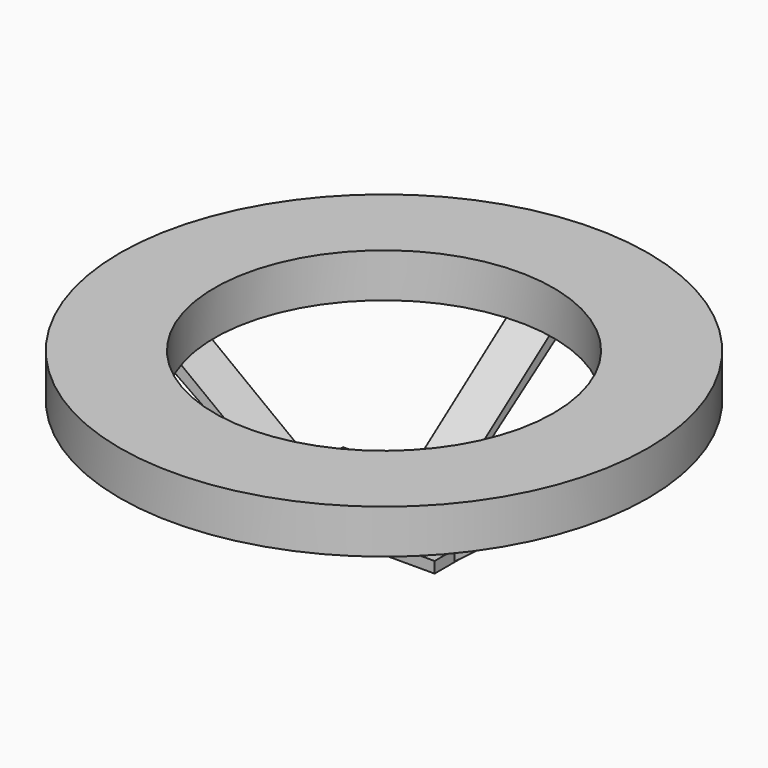
from build123d import *

# Parameters (mm, degrees)
F0_R      = 38.1
F0_R_2    = 24.458109
F1_DEPTH  = 3.175
F2_W      = 15.248981
F2_H      = 1.605155
F3_DEPTH  = 12.7
F6_DEPTH  = 3.175
F8_DEPTH  = 3.175
F9_DEPTH  = 3.175
F10_DEPTH = 3.175


with BuildPart() as f1:
    # F0 (on Top) → F1 (new body, symmetric)
    with BuildSketch(Plane.XY):
        Circle(F0_R)
        Circle(F0_R_2, mode=Mode.SUBTRACT)
    extrude(amount=F1_DEPTH, both=True)


with BuildPart() as f3:
    # F2 (on Right) → F3 (new body, symmetric)
    with BuildSketch(Plane.YZ):
        with Locations((0.872386, -17.480517)):
            Rectangle(F2_W, F2_H)
    extrude(amount=F3_DEPTH, both=True)


with BuildPart() as f6:
    # F5 (on Front) → F6 (new body, symmetric)
    with BuildSketch(Plane.XZ):
        Polygon((-12.45362, -17.95028), (-12.394847, -16.955135), (-30.858776, -2.888602), (-34.061063, -2.888602), align=None)
    extrude(amount=F6_DEPTH, both=True)


with BuildPart() as f8:
    # F7 (on Front) → F8 (new body, symmetric)
    with BuildSketch(Plane.XZ):
        Polygon((30.180834, -2.889303), (12.668087, -16.80029), (12.672707, -18.229164), (33.022512, -2.889303), align=None)
    extrude(amount=F8_DEPTH, both=True)


with BuildPart() as f9:
    # F4 (on Right) → F9 (new body, symmetric)
    with BuildSketch(Plane.YZ):
        Polygon((-6.596426, -17.948236), (-6.626349, -16.956734), (-26.51205, -3.091325), (-29.254386, -3.018449), align=None)
    extrude(amount=F9_DEPTH, both=True)


with BuildPart() as f10:
    # F4 (on Right) → F10 (new body, symmetric)
    with BuildSketch(Plane.YZ):
        Polygon((27.666226, -3.091325), (8.401115, -16.971443), (8.416793, -18.020378), (30.616566, -2.829434), align=None)
    extrude(amount=F10_DEPTH, both=True)


solid = Compound([f1.part, f3.part, f6.part, f8.part, f9.part, f10.part])
